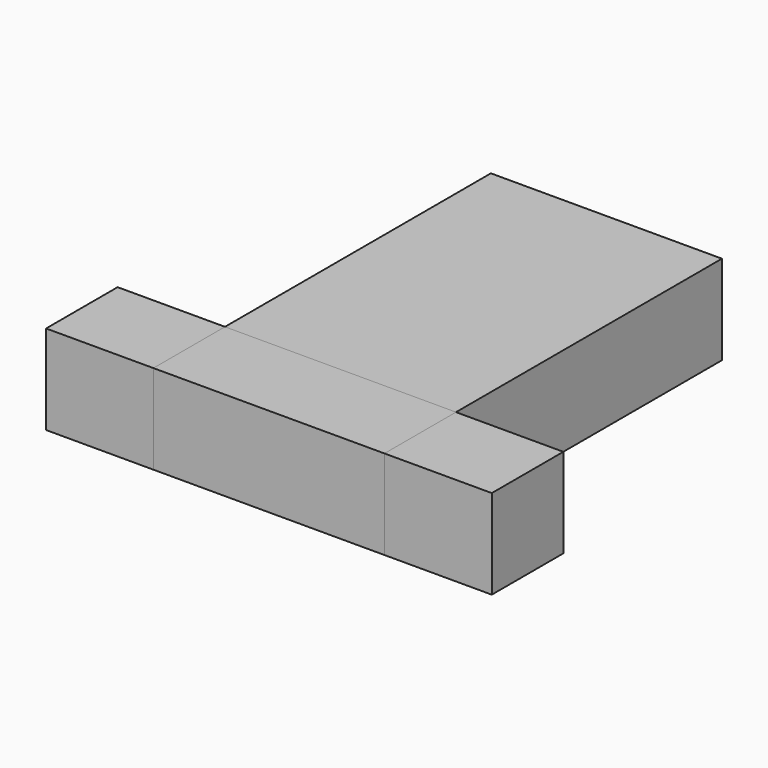
from build123d import *

# Parameters (mm, degrees)
F0_W     = 65.61971
F0_H     = 94.40029
F1_DEPTH = 25.4
F2_W     = 30.48
F2_H     = 25.4
F3_DEPTH = 25.4
F4_W     = 65.61971
F4_H     = 25.4
F5_DEPTH = 25.4


with BuildPart() as f1:
    # F0 (on Top) → F1 (new body)
    with BuildSketch(Plane.XY):
        with Locations((-7.626852, 2.158543)):
            Rectangle(F0_W, F0_H)
    extrude(amount=F1_DEPTH)


with BuildPart() as f3:
    # F2 (on face) → F3 (new body)
    with BuildSketch(Plane.XZ.offset(45.041602)):
        with Locations((-55.676707, 12.7)):
            Rectangle(F2_W, F2_H)
        with Locations((40.423003, 12.7)):
            Rectangle(F2_W, F2_H)
    extrude(amount=F3_DEPTH)


with BuildPart() as f5:
    # F4 (on face) → F5 (new body)
    with BuildSketch(Plane.XZ.offset(45.041602)):
        with Locations((-7.626852, 12.7)):
            Rectangle(F4_W, F4_H)
    extrude(amount=F5_DEPTH)


solid = Compound([f1.part, f3.part, f5.part])
